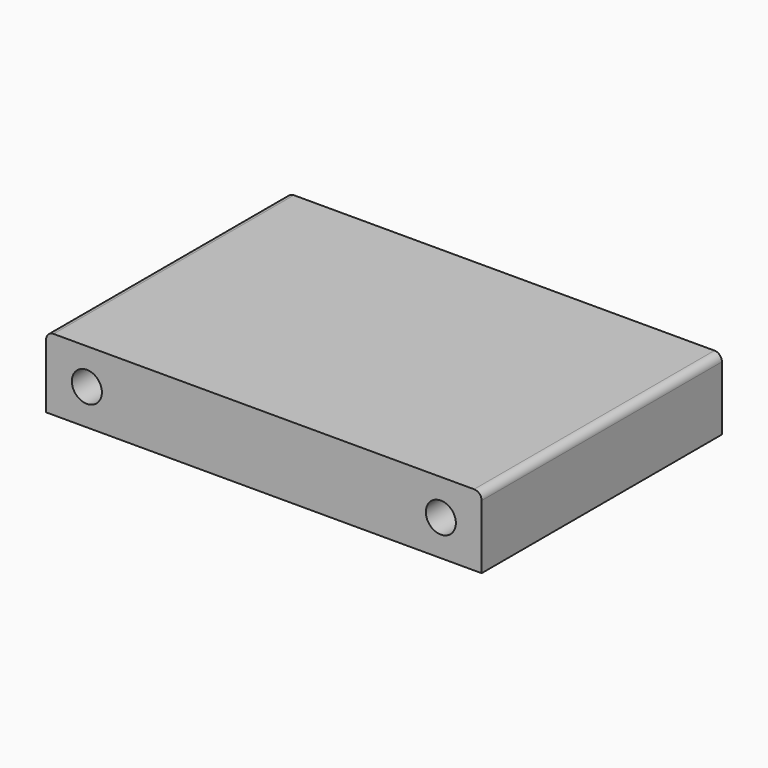
from build123d import *

# Parameters (mm, degrees)
SKETCH_W  = 58
SKETCH_H  = 9.52
SKETCH_R  = 2
PAD_DEPTH = 40
FILLET_R  = 1


with BuildPart() as part:
    # Sketch → Pad (new body)
    with BuildSketch(Plane.XZ):
        Rectangle(SKETCH_W, SKETCH_H)
        with Locations((-23.57, 0)):
            Circle(SKETCH_R, mode=Mode.SUBTRACT)
        with Locations((23.57, 0)):
            Circle(SKETCH_R, mode=Mode.SUBTRACT)
    extrude(amount=PAD_DEPTH)

    # Fillet
    fillet_edges = [part.edges().sort_by_distance(p)[0] for p in [
        (-29, -20, 4.76),
        (29, -20, 4.76),
    ]]
    fillet(fillet_edges, radius=FILLET_R)


solid = part.part
